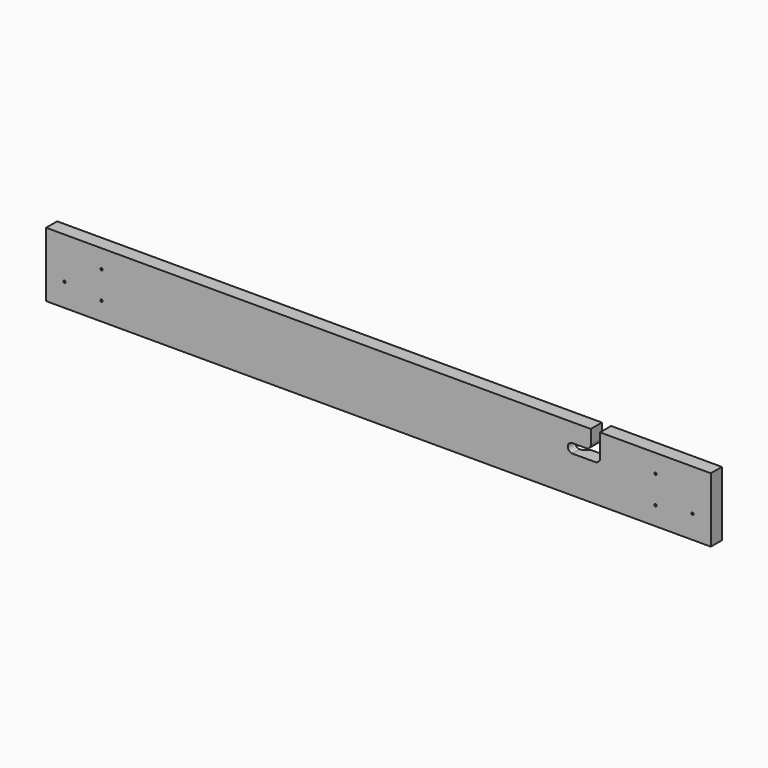
from build123d import *

# Parameters (mm, degrees)
F0_W           = 914.4
F0_H           = 88.9
F1_DEPTH       = 19.05
F3_D           = 3.175
F3_DEPTH       = 12.7
F3_TIP         = 0.9538662327
F4_DEPTH       = 19.051
F6_D           = 3.175
F8_D           = 12.7
F8_CSINK_D     = 25.4
F8_CSINK_ANGLE = 90


with BuildPart() as f1:
    # F0 (on Front) → F1 (new body)
    with BuildSketch(Plane.XZ):
        with Locations((-107.1765102817, 24.4370475411)):
            Rectangle(F0_W, F0_H)
    extrude(amount=F1_DEPTH)

    # F3
    with Locations(Plane.XZ.offset(19.05)):
        with Locations((273.8234897183, 43.4870475411), (273.8234897183, 5.3870475411), (-488.1765102817, 43.4870475411), (-488.1765102817, 5.3870475411)):
            Hole(F3_D / 2, depth=F3_DEPTH)
            with Locations((0, 0, -(F3_DEPTH + F3_TIP / 2))):  # 118° drill point
                Cone(0, F3_D / 2, F3_TIP, mode=Mode.SUBTRACT)

    # F2 (on face) → F4 (cut, through all)
    with BuildSketch(Plane.XZ.offset(19.05)):
        with BuildLine():
            Line((197.6234897183, 37.1370475411), (197.6234897183, 68.8870475411))
            Line((197.6234897183, 68.8870475411), (184.9234897183, 68.8870475411))
            Line((184.9234897183, 68.8870475411), (184.9234897183, 49.8370475411))
            ThreePointArc((184.9234897183, 49.8370475411), (183.0636177789, 45.3469194806), (178.5734897183, 43.4870475411))
            Line((178.5734897183, 43.4870475411), (159.5234897183, 43.4870475411))
            ThreePointArc((159.5234897183, 43.4870475411), (164.0136177789, 41.6271756017), (165.8734897183, 37.1370475411))
            ThreePointArc((165.8734897183, 37.1370475411), (164.0136177789, 32.6469194806), (159.5234897183, 30.7870475411))
            Line((159.5234897183, 30.7870475411), (191.2734897183, 30.7870475411))
            ThreePointArc((191.2734897183, 30.7870475411), (195.7636177789, 32.6469194806), (197.6234897183, 37.1370475411))
        make_face()
    extrude(amount=-F4_DEPTH, mode=Mode.SUBTRACT)

    # F6 (through all)
    with Locations(Plane(origin=(0, 0, 0), x_dir=(-1, 0, 0), z_dir=(0, 1, 0))):
        with Locations((-324.6234897183, 11.7370475411), (538.9765102817, 11.7370475411)):
            Hole(F6_D / 2)

    # F8 (through all)
    with Locations(Plane(origin=(0, 0, 0), x_dir=(-1, 0, 0), z_dir=(0, 1, 0))):
        with Locations((-159.5234897183, 37.1370475411)):
            CounterSinkHole(F8_D / 2, F8_CSINK_D / 2, counter_sink_angle=F8_CSINK_ANGLE)


solid = f1.part
